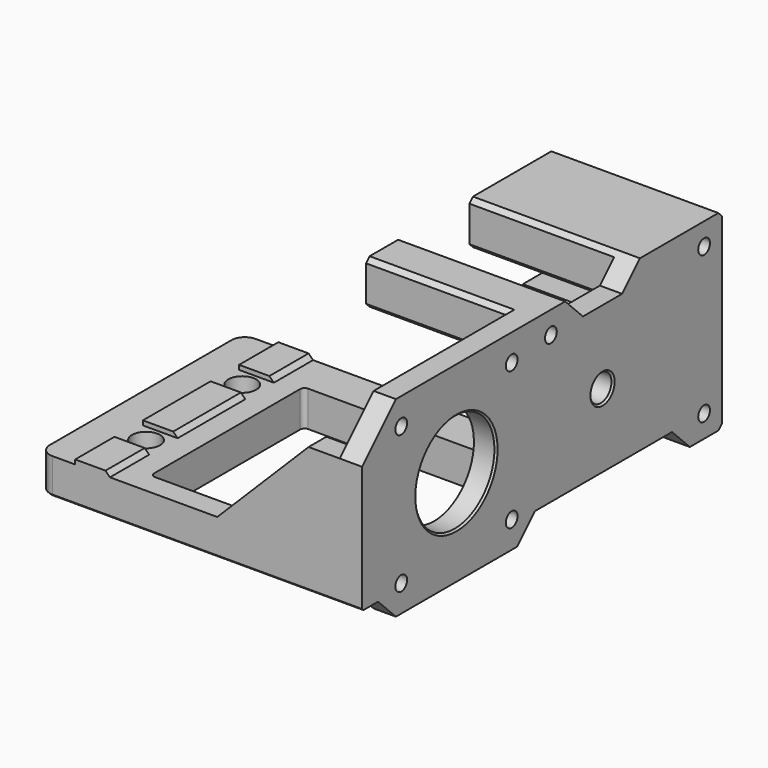
from build123d import *

# Parameters (mm, degrees)
BOX037_W          = 14
BOX037_H          = 43
BOX037_DEPTH      = 10
FILLET003_R       = 1
BOX020_W          = 10
BOX020_H          = 21
BOX020_DEPTH      = 10
CHAMFER025_SIZE   = 5
CYLINDER008_R     = 1.65
CYLINDER008_DEPTH = 110
CYLINDER009_R     = 1.65
CYLINDER009_DEPTH = 110
CYLINDER010_R     = 1.65
CYLINDER010_DEPTH = 110
BOX011_W          = 33
BOX011_H          = 24
BOX011_DEPTH      = 10
CHAMFER009_SIZE   = 1
BOX013_W          = 33
BOX013_H          = 10
BOX013_DEPTH      = 10
CHAMFER005_SIZE   = 1
BOX012_W          = 33
BOX012_H          = 10
BOX012_DEPTH      = 20
CHAMFER023_SIZE   = 1
CYLINDER024_R     = 3
CYLINDER024_DEPTH = 83
CYLINDER003_R     = 5.55
CYLINDER003_DEPTH = 4
CYLINDER023_R     = 11.5
CYLINDER023_DEPTH = 12
CHAMFER021_SIZE   = 1
CHAMFER022_SIZE   = 0.4
CYLINDER021_R     = 1.65
CYLINDER021_DEPTH = 30
CYLINDER020_R     = 1.65
CYLINDER020_DEPTH = 30
CYLINDER019_R     = 1.65
CYLINDER019_DEPTH = 30
CYLINDER022_R     = 1.65
CYLINDER022_DEPTH = 30
CYLINDER016_R     = 11.15
CYLINDER016_DEPTH = 83
BOX007_W          = 28
BOX007_H          = 5
BOX007_DEPTH      = 28.5
CHAMFER018_SIZE   = 0.5
CHAMFER019_SIZE   = 20.5
BOX015_W          = 10
BOX015_H          = 48.5
BOX015_DEPTH      = 10
CHAMFER014_SIZE   = 5
BOX016_W          = 10
BOX016_H          = 58.5
BOX016_DEPTH      = 10
CHAMFER013_SIZE   = 5
BOX_W             = 5
BOX_H             = 101
BOX_DEPTH         = 43
CHAMFER008_SIZE   = 1
CHAMFER015_SIZE   = 9.5
CHAMFER017_SIZE   = 0.4
CYLINDER018_R     = 3.15
CYLINDER018_DEPTH = 10
CYLINDER017_R     = 3.15
CYLINDER017_DEPTH = 10
BOX010_W          = 40.5
BOX010_H          = 43
BOX010_DEPTH      = 8
BOX009_W          = 72
BOX009_H          = 57
BOX009_DEPTH      = 8
FILLET001_R       = 3
CHAMFER016_SIZE   = 0.4
BOX019_W          = 7.8
BOX019_H          = 11
BOX019_DEPTH      = 2
BOX017_W          = 7.8
BOX017_H          = 11
BOX017_DEPTH      = 2
BOX018_W          = 7.8
BOX018_H          = 19
BOX018_DEPTH      = 2
CHAMFER020_SIZE   = 1
CHAMFER024_SIZE   = 0.4


with BuildPart() as fillet003:
    # Box037 → Box037 (new body)
    with BuildSketch(Plane(origin=(-6, -21.5, -10), x_dir=(1, 0, 0), z_dir=(0, 0, 1))):
        with Locations((7, 21.5)):
            Rectangle(BOX037_W, BOX037_H)
    extrude(amount=BOX037_DEPTH)

    # Fillet003
    fillet003_edges = [fillet003.edges().sort_by_distance(p)[0] for p in [
        (-6, -21.5, -5),
        (-6, 21.5, -5),
    ]]
    fillet(fillet003_edges, radius=FILLET003_R)


with BuildPart() as chamfer025:
    # Box020 → Box020 (new body)
    with BuildSketch(Plane(origin=(38.5, 30.5, 35), x_dir=(1, 0, 0), z_dir=(0, 0, 1))):
        with Locations((5, 10.5)):
            Rectangle(BOX020_W, BOX020_H)
    extrude(amount=BOX020_DEPTH)

    # Chamfer025
    chamfer025_edges = [chamfer025.edges().sort_by_distance(p)[0] for p in [
        (43.5, 30.5, 35),
        (43.5, 51.5, 35),
    ]]
    chamfer(chamfer025_edges, length=CHAMFER025_SIZE)


with BuildPart() as chamfer025_1:
    # Chamfer025 placement: moved
    add(chamfer025.part.moved(Location((0, 0, -10))))


with BuildPart() as cylinder002:
    # Cylinder008 → Cylinder008 (new body)
    with BuildSketch(Plane(origin=(2, 26.5, 25), x_dir=(0, 0, -1), z_dir=(1, 0, 0))):
        Circle(CYLINDER008_R)
    extrude(amount=CYLINDER008_DEPTH)


with BuildPart() as cylinder003:
    # Cylinder009 → Cylinder009 (new body)
    with BuildSketch(Plane(origin=(2, 69.5, 25), x_dir=(0, 0, -1), z_dir=(1, 0, 0))):
        Circle(CYLINDER009_R)
    extrude(amount=CYLINDER009_DEPTH)


with BuildPart() as fusion006002011004053036004001007:
    # Cylinder010 → Cylinder010 (new body)
    with BuildSketch(Plane(origin=(2, 69.5, -8), x_dir=(0, 0, -1), z_dir=(1, 0, 0))):
        Circle(CYLINDER010_R)
    extrude(amount=CYLINDER010_DEPTH)

    # Fusion006002011004053036004001007: union Cylinder002, Cylinder003
    add(cylinder002.part)
    add(cylinder003.part)


with BuildPart() as chamfer009:
    # Box011 → Box011 (new body)
    with BuildSketch(Plane(origin=(8, 50.5, 20), x_dir=(1, 0, 0), z_dir=(0, 0, 1))):
        with Locations((16.5, 12)):
            Rectangle(BOX011_W, BOX011_H)
    extrude(amount=BOX011_DEPTH)

    # Chamfer009
    chamfer009_edges = [chamfer009.edges().sort_by_distance(p)[0] for p in [
        (24.5, 50.5, 20),
        (24.5, 50.5, 30),
        (24.5, 74.5, 20),
        (24.5, 74.5, 30),
    ]]
    chamfer(chamfer009_edges, length=CHAMFER009_SIZE)


with BuildPart() as chamfer005:
    # Box013 → Box013 (new body)
    with BuildSketch(Plane(origin=(8, 21.5, 20), x_dir=(1, 0, 0), z_dir=(0, 0, 1))):
        with Locations((16.5, 5)):
            Rectangle(BOX013_W, BOX013_H)
    extrude(amount=BOX013_DEPTH)

    # Chamfer005
    chamfer005_edges = [chamfer005.edges().sort_by_distance(p)[0] for p in [
        (24.5, 21.5, 20),
        (24.5, 21.5, 30),
        (24.5, 31.5, 20),
        (24.5, 31.5, 30),
    ]]
    chamfer(chamfer005_edges, length=CHAMFER005_SIZE)


with BuildPart() as fusion006002011004053036004001017:
    # Box012 → Box012 (new body)
    with BuildSketch(Plane(origin=(8, 64.5, -13), x_dir=(1, 0, 0), z_dir=(0, 0, 1))):
        with Locations((16.5, 5)):
            Rectangle(BOX012_W, BOX012_H)
    extrude(amount=BOX012_DEPTH)

    # Chamfer023
    chamfer023_edges = [fusion006002011004053036004001017.edges().sort_by_distance(p)[0] for p in [
        (24.5, 64.5, -13),
        (24.5, 64.5, 7),
        (24.5, 74.5, -13),
        (24.5, 74.5, 7),
    ]]
    chamfer(chamfer023_edges, length=CHAMFER023_SIZE)

    # Fusion006002011004053036004001017: union Chamfer009, Chamfer005
    add(chamfer009.part)
    add(chamfer005.part)


with BuildPart() as obj1:
    # Cylinder024 → Cylinder024 (new body)
    with BuildSketch(Plane(origin=(-4.5, 41, 8.5), x_dir=(0, 0, -1), z_dir=(1, 0, 0))):
        Circle(CYLINDER024_R)
    extrude(amount=CYLINDER024_DEPTH)


with BuildPart() as obj2:
    # Cylinder003 → Cylinder003 (new body)
    with BuildSketch(Plane(origin=(30, 41, 8.5), x_dir=(0, 0, -1), z_dir=(1, 0, 0))):
        Circle(CYLINDER003_R)
    extrude(amount=CYLINDER003_DEPTH)


with BuildPart() as chamfer022:
    # Cylinder023 → Cylinder023 (new body)
    with BuildSketch(Plane(origin=(30, 41, 8.5), x_dir=(0, 0, -1), z_dir=(1, 0, 0))):
        Circle(CYLINDER023_R)
    extrude(amount=CYLINDER023_DEPTH)

    # Chamfer021
    chamfer021_edges = [chamfer022.edges().sort_by_distance(p)[0] for p in [
        (30, 41, 20),
    ]]
    chamfer(chamfer021_edges, length=CHAMFER021_SIZE)

    # Cut001018: cut obj2
    add(obj2.part, mode=Mode.SUBTRACT)

    # Chamfer022
    chamfer022_edges = [chamfer022.edges().sort_by_distance(p)[0] for p in [
        (30, 41, 14.05),
    ]]
    chamfer(chamfer022_edges, length=CHAMFER022_SIZE)


with BuildPart() as obj3:
    # Cylinder021 → Cylinder021 (new body)
    with BuildSketch(Plane(origin=(32, -15.5, -7), x_dir=(0, 0, -1), z_dir=(1, 0, 0))):
        Circle(CYLINDER021_R)
    extrude(amount=CYLINDER021_DEPTH)


with BuildPart() as obj4:
    # Cylinder020 → Cylinder020 (new body)
    with BuildSketch(Plane(origin=(32, -15.5, 24), x_dir=(0, 0, -1), z_dir=(1, 0, 0))):
        Circle(CYLINDER020_R)
    extrude(amount=CYLINDER020_DEPTH)


with BuildPart() as obj5:
    # Cylinder019 → Cylinder019 (new body)
    with BuildSketch(Plane(origin=(32, 15.5, 24), x_dir=(0, 0, -1), z_dir=(1, 0, 0))):
        Circle(CYLINDER019_R)
    extrude(amount=CYLINDER019_DEPTH)


with BuildPart() as fusion006002011004053036004001016:
    # Cylinder022 → Cylinder022 (new body)
    with BuildSketch(Plane(origin=(32, 15.5, -7), x_dir=(0, 0, -1), z_dir=(1, 0, 0))):
        Circle(CYLINDER022_R)
    extrude(amount=CYLINDER022_DEPTH)

    # Fusion006002011004053036004001016: union obj3, obj4, obj5
    add(obj3.part)
    add(obj4.part)
    add(obj5.part)


with BuildPart() as obj6:
    # Cylinder016 → Cylinder016 (new body)
    with BuildSketch(Plane(origin=(2.5, 0, 8.5), x_dir=(0, 0, -1), z_dir=(1, 0, 0))):
        Circle(CYLINDER016_R)
    extrude(amount=CYLINDER016_DEPTH)


with BuildPart() as chamfer019:
    # Box007 → Box007 (new body)
    with BuildSketch(Plane(origin=(13, -26.5, -8), x_dir=(1, 0, 0), z_dir=(0, 0, 1))):
        with Locations((14, 2.5)):
            Rectangle(BOX007_W, BOX007_H)
    extrude(amount=BOX007_DEPTH)

    # Chamfer018
    chamfer018_edges = [chamfer019.edges().sort_by_distance(p)[0] for p in [
        (27, -26.5, -8),
    ]]
    chamfer(chamfer018_edges, length=CHAMFER018_SIZE)

    # Chamfer019
    chamfer019_edges = [chamfer019.edges().sort_by_distance(p)[0] for p in [
        (13, -24, 20.5),
    ]]
    chamfer(chamfer019_edges, length=CHAMFER019_SIZE)


with BuildPart() as chamfer014:
    # Box015 → Box015 (new body)
    with BuildSketch(Plane(origin=(36.5, 17, -18), x_dir=(1, 0, 0), z_dir=(0, 0, 1))):
        with Locations((5, 24.25)):
            Rectangle(BOX015_W, BOX015_H)
    extrude(amount=BOX015_DEPTH)

    # Chamfer014
    chamfer014_edges = [chamfer014.edges().sort_by_distance(p)[0] for p in [
        (41.5, 17, -8),
        (41.5, 65.5, -8),
    ]]
    chamfer(chamfer014_edges, length=CHAMFER014_SIZE)


with BuildPart() as chamfer013:
    # Box016 → Box016 (new body)
    with BuildSketch(Plane(origin=(36.5, -75.5, -18), x_dir=(1, 0, 0), z_dir=(0, 0, 1))):
        with Locations((5, 29.25)):
            Rectangle(BOX016_W, BOX016_H)
    extrude(amount=BOX016_DEPTH)

    # Chamfer013
    chamfer013_edges = [chamfer013.edges().sort_by_distance(p)[0] for p in [
        (41.5, -17, -8),
    ]]
    chamfer(chamfer013_edges, length=CHAMFER013_SIZE)


with BuildPart() as chamfer017:
    # Box → Box (new body)
    with BuildSketch(Plane(origin=(40.5, -26.5, -13), x_dir=(1, 0, 0), z_dir=(0, 0, 1))):
        with Locations((2.5, 50.5)):
            Rectangle(BOX_W, BOX_H)
    extrude(amount=BOX_DEPTH)

    # Chamfer008
    chamfer008_edges = [chamfer017.edges().sort_by_distance(p)[0] for p in [
        (43, 74.5, -13),
        (43, 74.5, 30),
    ]]
    chamfer(chamfer008_edges, length=CHAMFER008_SIZE)

    # Cut001013: cut Chamfer013
    add(chamfer013.part, mode=Mode.SUBTRACT)

    # Cut001014: cut Chamfer014
    add(chamfer014.part, mode=Mode.SUBTRACT)

    # Chamfer015
    chamfer015_edges = [chamfer017.edges().sort_by_distance(p)[0] for p in [
        (43, -26.5, 30),
    ]]
    chamfer(chamfer015_edges, length=CHAMFER015_SIZE)

    # Chamfer017
    chamfer017_edges = [chamfer017.edges().sort_by_distance(p)[0] for p in [
        (43, -26.5, -8),
    ]]
    chamfer(chamfer017_edges, length=CHAMFER017_SIZE)


with BuildPart() as cylinder011:
    # Cylinder018 → Cylinder018 (new body)
    with BuildSketch(Plane(origin=(-15, -11.5, 0), x_dir=(1, 0, 0), z_dir=(0, 0, 1))):
        Circle(CYLINDER018_R)
    extrude(amount=CYLINDER018_DEPTH)


with BuildPart() as fusion006002011004053036004001012:
    # Cylinder017 → Cylinder017 (new body)
    with BuildSketch(Plane(origin=(-15, 15.5, 0), x_dir=(1, 0, 0), z_dir=(0, 0, 1))):
        Circle(CYLINDER017_R)
    extrude(amount=CYLINDER017_DEPTH)

    # Fusion006002011004053036004001012: union Cylinder011
    add(cylinder011.part)


with BuildPart() as fusion006002011004053036004001012_1:
    # Fusion006002011004053036004001012 placement: moved
    add(fusion006002011004053036004001012.part.moved(Location((0, 0, -9))))


with BuildPart() as cube010:
    # Box010 → Box010 (new body)
    with BuildSketch(Plane(origin=(0, -21.5, -8), x_dir=(1, 0, 0), z_dir=(0, 0, 1))):
        with Locations((20.25, 21.5)):
            Rectangle(BOX010_W, BOX010_H)
    extrude(amount=BOX010_DEPTH)


with BuildPart() as cut001015:
    # Box009 → Box009 (new body)
    with BuildSketch(Plane(origin=(-27, -26.5, -8), x_dir=(1, 0, 0), z_dir=(0, 0, 1))):
        with Locations((36, 28.5)):
            Rectangle(BOX009_W, BOX009_H)
    extrude(amount=BOX009_DEPTH)

    # Fillet001
    fillet001_edges = [cut001015.edges().sort_by_distance(p)[0] for p in [
        (-27, -26.5, -4),
        (-27, 30.5, -4),
    ]]
    fillet(fillet001_edges, radius=FILLET001_R)

    # Cut001009: cut Cube010
    add(cube010.part, mode=Mode.SUBTRACT)

    # Chamfer016
    chamfer016_edges = [cut001015.edges().sort_by_distance(p)[0] for p in [
        (-27, 2, -8),
        (-26.12132, -25.62132, -8),
        (-26.12132, 29.62132, -8),
        (10.5, -26.5, -8),
        (10.5, 30.5, -8),
    ]]
    chamfer(chamfer016_edges, length=CHAMFER016_SIZE)

    # Cut001015: cut Fusion006002011004053036004001012
    add(fusion006002011004053036004001012_1.part, mode=Mode.SUBTRACT)


with BuildPart() as cube019:
    # Box019 → Box019 (new body)
    with BuildSketch(Plane(origin=(-18.9, 19.5, 0), x_dir=(1, 0, 0), z_dir=(0, 0, 1))):
        with Locations((3.9, 5.5)):
            Rectangle(BOX019_W, BOX019_H)
    extrude(amount=BOX019_DEPTH)


with BuildPart() as cube017:
    # Box017 → Box017 (new body)
    with BuildSketch(Plane(origin=(-18.9, -26.5, 0), x_dir=(1, 0, 0), z_dir=(0, 0, 1))):
        with Locations((3.9, 5.5)):
            Rectangle(BOX017_W, BOX017_H)
    extrude(amount=BOX017_DEPTH)


with BuildPart() as z_motor_plate_r003:
    # Box018 → Box018 (new body)
    with BuildSketch(Plane(origin=(-18.9, -7.5, 0), x_dir=(1, 0, 0), z_dir=(0, 0, 1))):
        with Locations((3.9, 9.5)):
            Rectangle(BOX018_W, BOX018_H)
    extrude(amount=BOX018_DEPTH)

    # Fusion006002011004053036004001013: union Cube019, Cube017
    add(cube019.part)
    add(cube017.part)


with BuildPart() as z_motor_plate_r003_1:
    # Fusion006002011004053036004001013 placement: moved
    add(z_motor_plate_r003.part.moved(Location((0, 0, -1))))

    # Chamfer020
    chamfer020_edges = [z_motor_plate_r003_1.edges().sort_by_distance(p)[0] for p in [
        (-11.1, 2, 1),
        (-11.1, 25, 1),
        (-11.1, -21, 1),
    ]]
    chamfer(chamfer020_edges, length=CHAMFER020_SIZE)

    # Fusion006002011004053036004001014: union Cut001015
    add(cut001015.part)

    # Fusion006002011004053036004001015: union Chamfer019, Chamfer017
    add(chamfer019.part)
    add(chamfer017.part)

    # Cut001016: cut obj6
    add(obj6.part, mode=Mode.SUBTRACT)

    # Cut001017: cut Fusion006002011004053036004001016
    add(fusion006002011004053036004001016.part, mode=Mode.SUBTRACT)

    # Fusion006002011004053036004001018: union Chamfer022
    add(chamfer022.part)

    # Cut001019: cut obj1
    add(obj1.part, mode=Mode.SUBTRACT)

    # Chamfer024
    chamfer024_edges = [z_motor_plate_r003_1.edges().sort_by_distance(p)[0] for p in [
        (45.5, 0, 19.65),
        (45.5, 41, 11.5),
        (34, 41, 11.5),
    ]]
    chamfer(chamfer024_edges, length=CHAMFER024_SIZE)

    # Fusion006002011004053036004001019: union Fusion006002011004053036004001017
    add(fusion006002011004053036004001017.part)

    # Cut001020: cut Fusion006002011004053036004001007
    add(fusion006002011004053036004001007.part, mode=Mode.SUBTRACT)

    # Cut001021: cut Chamfer025
    add(chamfer025_1.part, mode=Mode.SUBTRACT)

    # Cut001024014003: cut Fillet003
    add(fillet003.part, mode=Mode.SUBTRACT)


solid = z_motor_plate_r003_1.part
